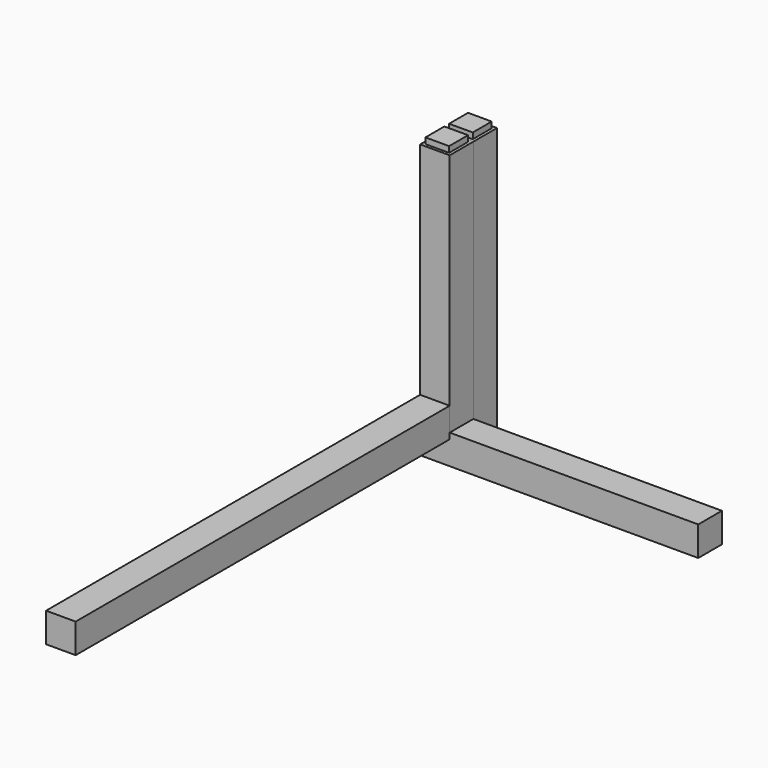
from build123d import *

# Parameters (mm, degrees)
F0_W     = 63.5
F0_H     = 63.5
F1_DEPTH = 600.075
F2_W     = 63.5
F2_H     = 63.5
F2_W_2   = 50.8
F2_H_2   = 50.8
F3_DEPTH = 12.7
F4_W     = 63.5
F4_H     = 63.5
F5_DEPTH = 501.65
F7_W     = 63.5
F7_H     = 63.5
F8_DEPTH = 298.45


with BuildPart() as f1:
    # F0 (on Top) → F1 (new body)
    with BuildSketch(Plane.XY):
        with Locations((31.75, -31.75)):
            Rectangle(F0_W, F0_H)
    extrude(amount=F1_DEPTH)

    # F2 (on face) → F3 (cut)
    with BuildSketch(Plane.XY.offset(600.075)):
        with Locations((31.75, -31.75)):
            Rectangle(F2_W, F2_H)
        with Locations((31.75, -31.75)):
            Rectangle(F2_W_2, F2_H_2, mode=Mode.SUBTRACT)
    extrude(amount=-F3_DEPTH, mode=Mode.SUBTRACT)


with BuildPart() as f5:
    # F4 (on face) → F5 (new body)
    with BuildSketch(Plane.XZ.offset(63.5)):
        with Locations((31.75, 82.55)):
            Rectangle(F4_W, F4_H)
        with Locations((31.75, 82.55)):
            Rectangle(F4_W, F4_H)
    extrude(amount=F5_DEPTH)

    # F6: F5 across face


with BuildPart() as f5_1:
    add(f5.part)
    add(f5.part.mirror(Plane(origin=(31.75, -565.15, 82.55), x_dir=(1, 0, 0), z_dir=(0, -1, 0))))


with BuildPart() as f8:
    # F7 (on Right) → F8 (new body)
    with BuildSketch(Plane.YZ):
        with Locations((-31.75, 31.75)):
            Rectangle(F7_W, F7_H)
    extrude(amount=F8_DEPTH)

    # F9: F8 across face


with BuildPart() as f8_1:
    add(f8.part)
    add(f8.part.mirror(Plane(origin=(298.45, -31.75, 31.75), x_dir=(0, 1, 0), z_dir=(1, 0, 0))))


with BuildPart() as f10_1:
    # F10: instance of F1
    add(f1.part.mirror(Plane.XZ))


solid = Compound([f1.part, f5_1.part, f8_1.part, f10_1.part])
